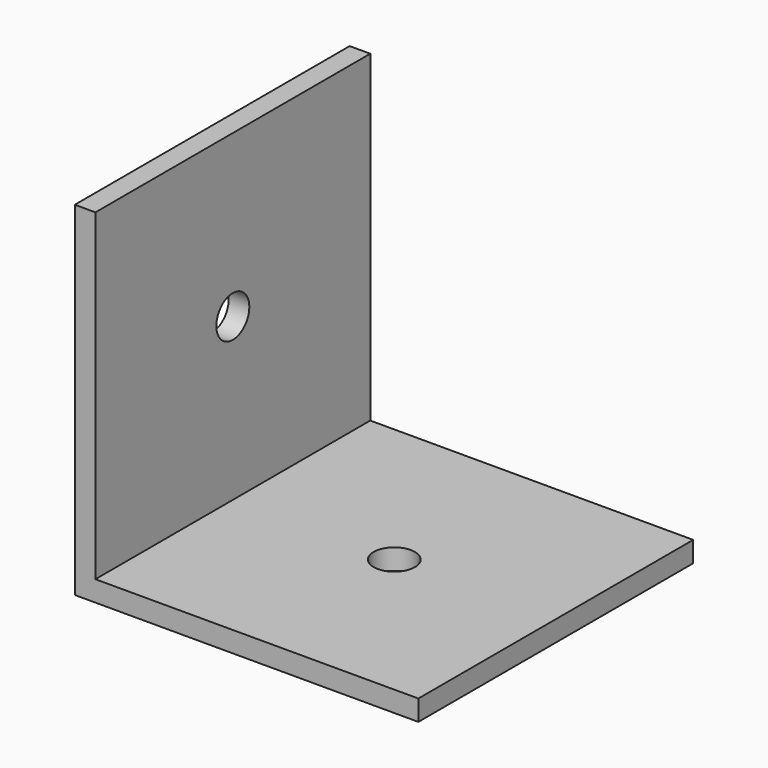
from build123d import *

# Parameters (mm, degrees)
F1_DEPTH = 50
F2_R     = 3
F3_DEPTH = 3
F4_R     = 3
F5_DEPTH = 3.001


with BuildPart() as f1:
    # F0 (on Front) → F1 (new body)
    with BuildSketch(Plane.XZ):
        Polygon((0, 50), (0, 0), (50, 0), (50, 3), (3, 3), (3, 50), align=None)
    extrude(amount=F1_DEPTH)

    # F2 (on face) → F3 (cut, through all)
    with BuildSketch(Plane.YZ.offset(3)):
        with Locations((-25, 26.5)):
            Circle(F2_R)
    extrude(amount=-F3_DEPTH, mode=Mode.SUBTRACT)

    # F4 (on face) → F5 (cut, through all)
    with BuildSketch(Plane.XY.offset(3)):
        with Locations((26.5, -25)):
            Circle(F4_R)
    extrude(amount=-F5_DEPTH, mode=Mode.SUBTRACT)


solid = f1.part
